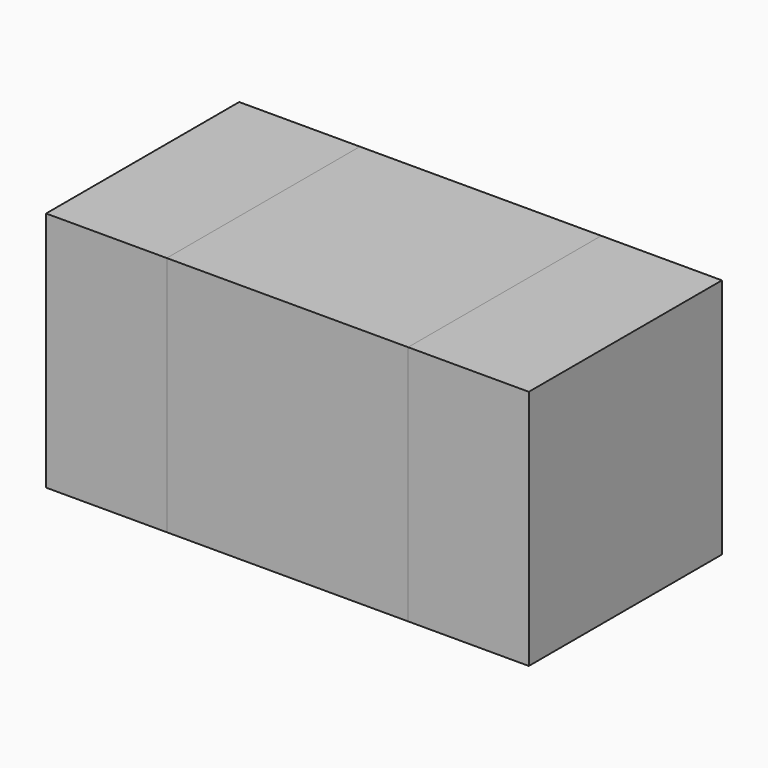
from build123d import *

# Parameters (mm, degrees)
BOX_W        = 0.4
BOX_H        = 0.8
BOX_DEPTH    = 0.8
BOX001_W     = 0.8
BOX001_H     = 0.8
BOX001_DEPTH = 0.8
BOX002_W     = 0.4
BOX002_H     = 0.8
BOX002_DEPTH = 0.8


with BuildPart() as pad001:
    # Box → Box (new body)
    with BuildSketch(Plane.XY):
        with Locations((0.2, 0.4)):
            Rectangle(BOX_W, BOX_H)
    extrude(amount=BOX_DEPTH)


with BuildPart() as corpo:
    # Box001 → Box001 (new body)
    with BuildSketch(Plane(origin=(0.4, 0, 0), x_dir=(1, 0, 0), z_dir=(0, 0, 1))):
        with Locations((0.4, 0.4)):
            Rectangle(BOX001_W, BOX001_H)
    extrude(amount=BOX001_DEPTH)


with BuildPart() as pad002:
    # Box002 → Box002 (new body)
    with BuildSketch(Plane(origin=(1.2, 0, 0), x_dir=(1, 0, 0), z_dir=(0, 0, 1))):
        with Locations((0.2, 0.4)):
            Rectangle(BOX002_W, BOX002_H)
    extrude(amount=BOX002_DEPTH)


solid = Compound([pad001.part, corpo.part, pad002.part])
